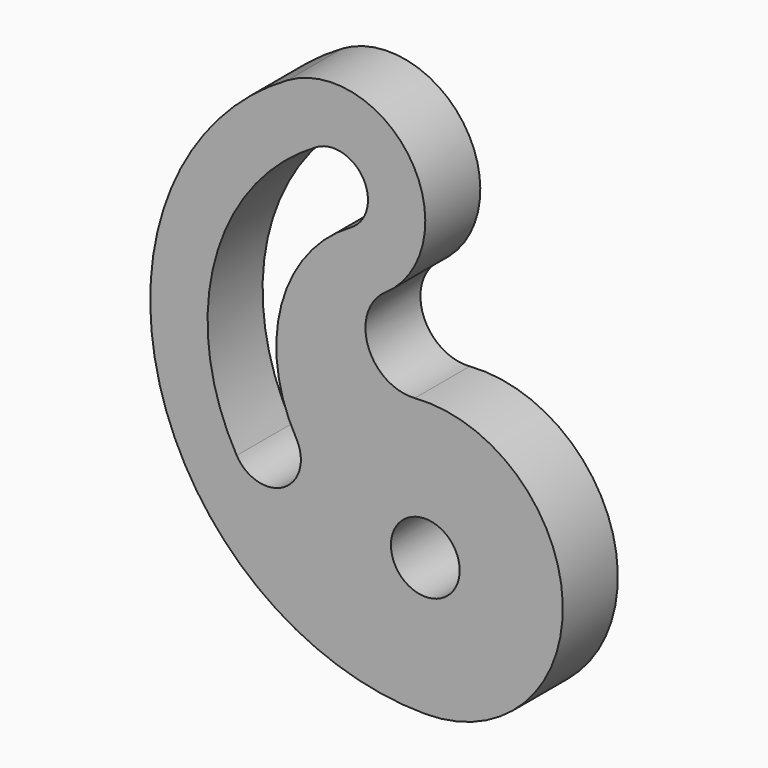
from build123d import *

# Parameters (mm, degrees)
F0_R     = 190.5
F1_DEPTH = 381


with BuildPart() as f1:
    # F0 (on Front) → F1 (new body)
    with BuildSketch(Plane.XZ):
        with BuildLine():
            ThreePointArc((-221.112014, 1222.645262), (-78.096663, 1912.523864), (-762, 2081.822715))
            ThreePointArc((-762, 2081.822715), (-1472.070959, 367.559775), (0, -762))
            ThreePointArc((0, -762), (761.442356, 29.146838), (-58.251015, 759.770241))
            ThreePointArc((-58.251015, 759.770241), (-317.269762, 928.723932), (-221.112014, 1222.645262))
        make_face()
        Circle(F0_R, mode=Mode.SUBTRACT)
        with BuildLine():
            ThreePointArc((-603.25, 1806.85965), (-343.022161, 1737.13181), (-412.75, 1476.903971))
            ThreePointArc((-412.75, 1476.903971), (-797.37177, 975.655122), (-714.903971, 349.25))
            ThreePointArc((-714.903971, 349.25), (-784.63181, 89.022161), (-1044.85965, 158.75))
            ThreePointArc((-1044.85965, 158.75), (-1165.389509, 1074.265178), (-603.25, 1806.85965))
        make_face(mode=Mode.SUBTRACT)
    extrude(amount=F1_DEPTH)


solid = f1.part
